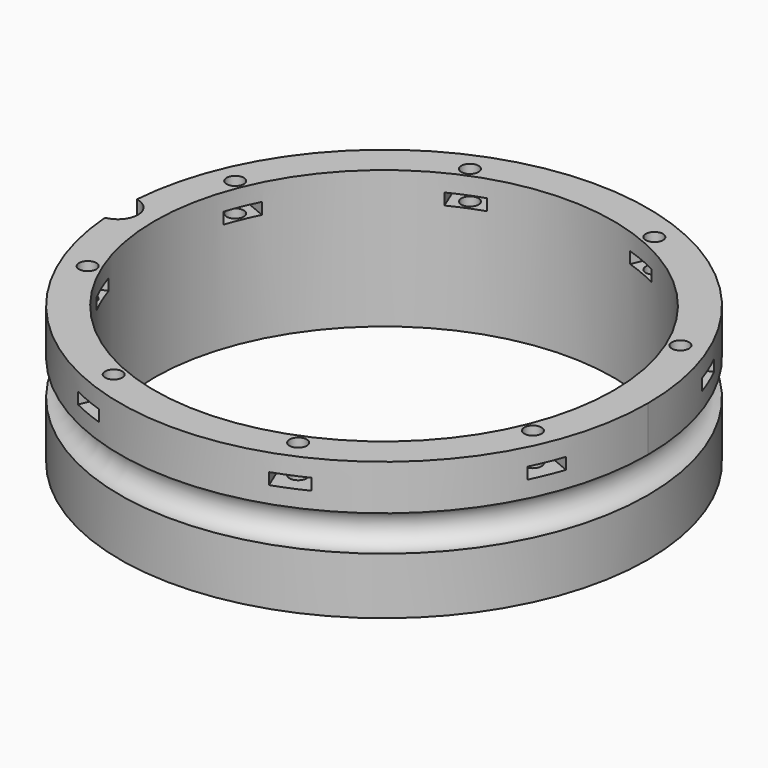
from build123d import *

# Parameters (mm, degrees)
BOX397_W                     = 6
BOX397_H                     = 8
BOX397_DEPTH                 = 2
BOX397_PLACEMENT_ANGLE       = 45
BOX395_W                     = 6
BOX395_H                     = 8
BOX395_DEPTH                 = 2
BOX394_W                     = 6
BOX394_H                     = 8
BOX394_DEPTH                 = 2
BOX399_W                     = 6
BOX399_H                     = 8
BOX399_DEPTH                 = 2
BOX399_PLACEMENT_ANGLE       = 135
BOX398_W                     = 6
BOX398_H                     = 8
BOX398_DEPTH                 = 2
BOX393_W                     = 6
BOX393_H                     = 8
BOX393_DEPTH                 = 2
BOX393_PLACEMENT_ANGLE       = 225
BOX396_W                     = 6
BOX396_H                     = 8
BOX396_DEPTH                 = 2
BOX389_W                     = 6
BOX389_H                     = 8
BOX389_DEPTH                 = 2
BOX389_PLACEMENT_ANGLE       = 45
COMPOUND855_PLACEMENT_ANGLE  = 22.5
CYLINDER1093_R               = 1.5
CYLINDER1093_DEPTH           = 32
CYLINDER1093_PLACEMENT_ANGLE = 45
CYLINDER1092_R               = 1.5
CYLINDER1092_DEPTH           = 32
CYLINDER1091_R               = 1.5
CYLINDER1091_DEPTH           = 32
CYLINDER1091_PLACEMENT_ANGLE = 135
CYLINDER1083_R               = 1.5
CYLINDER1083_DEPTH           = 32
CYLINDER1089_R               = 1.5
CYLINDER1089_DEPTH           = 32
CYLINDER1089_PLACEMENT_ANGLE = 225
CYLINDER1090_R               = 1.5
CYLINDER1090_DEPTH           = 32
CYLINDER1078_R               = 1.5
CYLINDER1078_DEPTH           = 32
CYLINDER1078_PLACEMENT_ANGLE = 45
CYLINDER1081_R               = 1.5
CYLINDER1081_DEPTH           = 32
COMPOUND857_PLACEMENT_ANGLE  = 22.5
CYLINDER1074_R               = 3.5
CYLINDER1074_DEPTH           = 20
TORUS007_R                   = 3.1
TUBE096_R                    = 46
TUBE096_R_2                  = 40
TUBE096_DEPTH                = 24


with BuildPart() as krychle397:
    # Box397 → Box397 (new body)
    with BuildSketch(Plane.XY):
        with Locations((3, 4)):
            Rectangle(BOX397_W, BOX397_H)
    extrude(amount=BOX397_DEPTH)


with BuildPart() as krychle397_1:
    # Box397 placement: moved
    add(krychle397.part.moved(Location((30.405592, -34.648232, 33))).rotate(Axis((30.405592, -34.648232, 33), (0, 0, 1)), BOX397_PLACEMENT_ANGLE))


with BuildPart() as krychle395:
    # Box395 → Box395 (new body)
    with BuildSketch(Plane(origin=(46, -3, 33), x_dir=(0, 1, 0), z_dir=(0, 0, 1))):
        with Locations((3, 4)):
            Rectangle(BOX395_W, BOX395_H)
    extrude(amount=BOX395_DEPTH)


with BuildPart() as krychle394:
    # Box394 → Box394 (new body)
    with BuildSketch(Plane(origin=(-3, -46, 33), x_dir=(1, 0, 0), z_dir=(0, 0, 1))):
        with Locations((3, 4)):
            Rectangle(BOX394_W, BOX394_H)
    extrude(amount=BOX394_DEPTH)


with BuildPart() as krychle399:
    # Box399 → Box399 (new body)
    with BuildSketch(Plane.XY):
        with Locations((3, 4)):
            Rectangle(BOX399_W, BOX399_H)
    extrude(amount=BOX399_DEPTH)


with BuildPart() as krychle399_1:
    # Box399 placement: moved
    add(krychle399.part.moved(Location((34.648232, 30.405592, 33))).rotate(Axis((34.648232, 30.405592, 33), (0, 0, 1)), BOX399_PLACEMENT_ANGLE))


with BuildPart() as krychle398:
    # Box398 → Box398 (new body)
    with BuildSketch(Plane(origin=(3, 46, 33), x_dir=(-1, 0, 0), z_dir=(0, 0, 1))):
        with Locations((3, 4)):
            Rectangle(BOX398_W, BOX398_H)
    extrude(amount=BOX398_DEPTH)


with BuildPart() as krychle393:
    # Box393 → Box393 (new body)
    with BuildSketch(Plane.XY):
        with Locations((3, 4)):
            Rectangle(BOX393_W, BOX393_H)
    extrude(amount=BOX393_DEPTH)


with BuildPart() as krychle393_1:
    # Box393 placement: moved
    add(krychle393.part.moved(Location((-30.405592, 34.648232, 33))).rotate(Axis((-30.405592, 34.648232, 33), (0, 0, 1)), BOX393_PLACEMENT_ANGLE))


with BuildPart() as krychle396:
    # Box396 → Box396 (new body)
    with BuildSketch(Plane(origin=(-46, 3, 33), x_dir=(0, -1, 0), z_dir=(0, 0, 1))):
        with Locations((3, 4)):
            Rectangle(BOX396_W, BOX396_H)
    extrude(amount=BOX396_DEPTH)


with BuildPart() as compound855:
    # Box389 → Box389 (new body)
    with BuildSketch(Plane.XY):
        with Locations((3, 4)):
            Rectangle(BOX389_W, BOX389_H)
    extrude(amount=BOX389_DEPTH)


with BuildPart() as compound855_1:
    # Box389 placement: moved
    add(compound855.part.moved(Location((-34.648232, -30.405592, 33))).rotate(Axis((-34.648232, -30.405592, 33), (0, 0, -1)), BOX389_PLACEMENT_ANGLE))

    # Compound855: union Krychle397, Krychle395, Krychle394, Krychle399, Krychle398, Krychle393, Krychle396
    add(krychle397_1.part)
    add(krychle395.part)
    add(krychle394.part)
    add(krychle399_1.part)
    add(krychle398.part)
    add(krychle393_1.part)
    add(krychle396.part)


with BuildPart() as compound855_2:
    # Compound855 placement: moved
    add(compound855_1.part.moved(Location((0, 0, 7))).rotate(Axis((0, 0, 7), (0, 0, 1)), COMPOUND855_PLACEMENT_ANGLE))


with BuildPart() as obj1:
    # Cylinder1093 → Cylinder1093 (new body)
    with BuildSketch(Plane.XY):
        Circle(CYLINDER1093_R)
    extrude(amount=CYLINDER1093_DEPTH)


with BuildPart() as obj1_1:
    # Cylinder1093 placement: moved
    add(obj1.part.moved(Location((29.698485, -29.698485, 33.5))).rotate(Axis((29.698485, -29.698485, 33.5), (0, 0, 1)), CYLINDER1093_PLACEMENT_ANGLE))


with BuildPart() as obj2:
    # Cylinder1092 → Cylinder1092 (new body)
    with BuildSketch(Plane(origin=(42, 0, 33.5), x_dir=(0, 1, 0), z_dir=(0, 0, 1))):
        Circle(CYLINDER1092_R)
    extrude(amount=CYLINDER1092_DEPTH)


with BuildPart() as obj3:
    # Cylinder1091 → Cylinder1091 (new body)
    with BuildSketch(Plane.XY):
        Circle(CYLINDER1091_R)
    extrude(amount=CYLINDER1091_DEPTH)


with BuildPart() as obj3_1:
    # Cylinder1091 placement: moved
    add(obj3.part.moved(Location((29.698485, 29.698485, 33.5))).rotate(Axis((29.698485, 29.698485, 33.5), (0, 0, 1)), CYLINDER1091_PLACEMENT_ANGLE))


with BuildPart() as obj4:
    # Cylinder1083 → Cylinder1083 (new body)
    with BuildSketch(Plane(origin=(0, 42, 33.5), x_dir=(-1, 0, 0), z_dir=(0, 0, 1))):
        Circle(CYLINDER1083_R)
    extrude(amount=CYLINDER1083_DEPTH)


with BuildPart() as obj5:
    # Cylinder1089 → Cylinder1089 (new body)
    with BuildSketch(Plane.XY):
        Circle(CYLINDER1089_R)
    extrude(amount=CYLINDER1089_DEPTH)


with BuildPart() as obj5_1:
    # Cylinder1089 placement: moved
    add(obj5.part.moved(Location((-29.698485, 29.698485, 33.5))).rotate(Axis((-29.698485, 29.698485, 33.5), (0, 0, 1)), CYLINDER1089_PLACEMENT_ANGLE))


with BuildPart() as obj6:
    # Cylinder1090 → Cylinder1090 (new body)
    with BuildSketch(Plane(origin=(-42, 0, 33.5), x_dir=(0, -1, 0), z_dir=(0, 0, 1))):
        Circle(CYLINDER1090_R)
    extrude(amount=CYLINDER1090_DEPTH)


with BuildPart() as obj7:
    # Cylinder1078 → Cylinder1078 (new body)
    with BuildSketch(Plane.XY):
        Circle(CYLINDER1078_R)
    extrude(amount=CYLINDER1078_DEPTH)


with BuildPart() as obj7_1:
    # Cylinder1078 placement: moved
    add(obj7.part.moved(Location((-29.698485, -29.698485, 33.5))).rotate(Axis((-29.698485, -29.698485, 33.5), (0, 0, -1)), CYLINDER1078_PLACEMENT_ANGLE))


with BuildPart() as compound857:
    # Cylinder1081 → Cylinder1081 (new body)
    with BuildSketch(Plane(origin=(0, -42, 33.5), x_dir=(1, 0, 0), z_dir=(0, 0, 1))):
        Circle(CYLINDER1081_R)
    extrude(amount=CYLINDER1081_DEPTH)

    # Compound857: union obj1, obj2, obj3, obj4, obj5, obj6, obj7
    add(obj1_1.part)
    add(obj2.part)
    add(obj3_1.part)
    add(obj4.part)
    add(obj5_1.part)
    add(obj6.part)
    add(obj7_1.part)


with BuildPart() as compound857_1:
    # Compound857 placement: moved
    add(compound857.part.moved(Location((0, 0, 4))).rotate(Axis((0, 0, 4), (0, 0, 1)), COMPOUND857_PLACEMENT_ANGLE))


with BuildPart() as obj8:
    # Cylinder1074 → Cylinder1074 (new body)
    with BuildSketch(Plane(origin=(-46.4, 0, 34), x_dir=(1, 0, 0), z_dir=(0, 0, 1))):
        Circle(CYLINDER1074_R)
    extrude(amount=CYLINDER1074_DEPTH)


with BuildPart() as obj9:
    # Torus007 → Torus007 (revolve)
    with BuildSketch(Plane(origin=(0, 0, 34), x_dir=(1, 0, 0), z_dir=(0, -1, 0))):
        with Locations((46, 0)):
            Circle(TORUS007_R)
    revolve(axis=Axis((0, 0, 34), (0, 0, 1)))


with BuildPart() as cut401:
    # Tube096 → Tube096 (new body)
    with BuildSketch(Plane.XY.offset(21)):
        Circle(TUBE096_R)
        Circle(TUBE096_R_2, mode=Mode.SUBTRACT)
    extrude(amount=TUBE096_DEPTH)

    # Cut399: cut obj9
    add(obj9.part, mode=Mode.SUBTRACT)

    # Cut406: cut obj8
    add(obj8.part, mode=Mode.SUBTRACT)

    # Cut400: cut Compound857
    add(compound857_1.part, mode=Mode.SUBTRACT)

    # Cut401: cut Compound855
    add(compound855_2.part, mode=Mode.SUBTRACT)


solid = cut401.part
